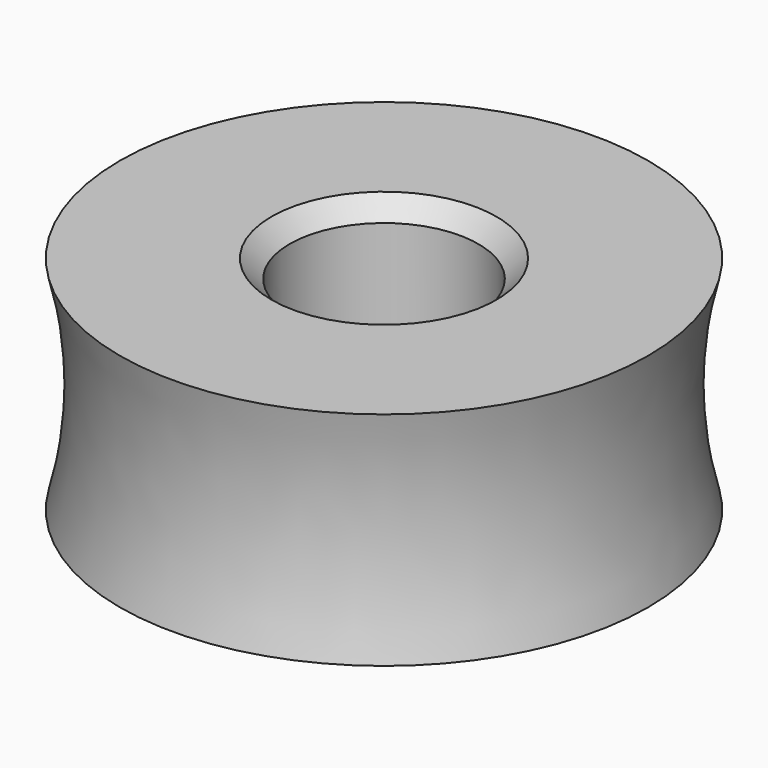
from build123d import *

# Parameters (mm, degrees)
F2_SIZE = 1


with BuildPart() as f1:
    # F0 (on Front) → F1 (revolve)
    with BuildSketch(Plane.XZ):
        with BuildLine():
            Line((-5.2, 12.2), (-14.55, 12.2))
            ThreePointArc((-14.55, 12.2), (-13.75, 6.1), (-14.55, 0))
            Line((-14.55, 0), (-5.2, 0))
            Line((-5.2, 0), (-5.2, 12.2))
        make_face()
    revolve(axis=Axis((0, 0, 6.1), (0, 0, 1)))

    # F2
    f2_edges = [f1.edges().sort_by_distance(p)[0] for p in [
        (5.2, 0, 0),
        (5.2, 0, 12.2),
        (-5.2, 0, 6.1),
    ]]
    chamfer(f2_edges, length=F2_SIZE)


solid = f1.part
